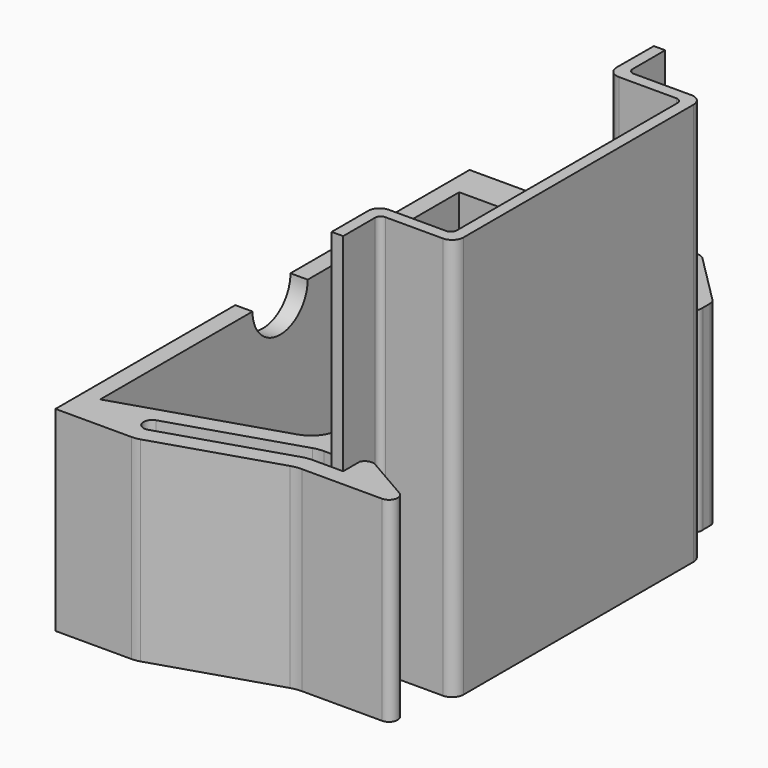
from build123d import *

# Parameters (mm, degrees)
PAD001_DEPTH            = 35
CYLINDER_R              = 1.25
CYLINDER_DEPTH          = 10
CYLINDER_PITCH_ANGLE    = -90
CYLINDER002_R           = 1.25
CYLINDER002_DEPTH       = 10
CYLINDER002_PITCH_ANGLE = -90
CYLINDER001_R           = 1.25
CYLINDER001_DEPTH       = 10
CYLINDER001_PITCH_ANGLE = -90
CYLINDER003_R           = 3
CYLINDER003_DEPTH       = 25
CYLINDER003_PITCH_ANGLE = -90
PAD_DEPTH               = 17


with BuildPart() as din_rail:
    # Sketch001 → Pad001 (new body)
    with BuildSketch(Plane(origin=(0, 17.5, 0), x_dir=(1, 0, 0), z_dir=(0, 0, 1))):
        with BuildLine():
            Line((0, 0), (0.981065, 0))
            Line((0.981065, 0), (0.981065, -3.535445))
            ThreePointArc((0.981065, -3.535445), (1.127512, -3.888998), (1.481065, -4.035445))
            Line((1.481065, -4.035445), (6.481065, -4.035445))
            ThreePointArc((7.481065, -5.035445), (7.188172, -4.328338), (6.481065, -4.035445))
            Line((7.481065, -5.035445), (7.481065, -30.035445))
            ThreePointArc((6.481065, -31.035445), (7.188172, -30.742552), (7.481065, -30.035445))
            Line((6.481065, -31.035445), (1.481065, -31.035445))
            ThreePointArc((1.481065, -31.035445), (1.127512, -31.181892), (0.981065, -31.535445))
            Line((0.981065, -31.535445), (0.981065, -35))
            Line((0.981065, -35), (-0.018935, -35))
            Line((-0.018935, -35), (-0.018935, -31.035445))
            ThreePointArc((0.981065, -30.035445), (0.273958, -30.328338), (-0.018935, -31.035445))
            Line((0.981065, -30.035445), (5.981065, -30.035445))
            ThreePointArc((5.981065, -30.035445), (6.334618, -29.888998), (6.481065, -29.535445))
            Line((6.481065, -29.535445), (6.481065, -5.535445))
            ThreePointArc((6.481065, -5.535445), (6.334618, -5.181892), (5.981065, -5.035445))
            Line((5.981065, -5.035445), (0.981065, -5.035445))
            ThreePointArc((-0.018935, -4.035445), (0.273958, -4.742552), (0.981065, -5.035445))
            Line((-0.018935, -4.035445), (0, 0))
        make_face()
    extrude(amount=PAD001_DEPTH)


with BuildPart() as bracket_hole:
    # Cylinder → Cylinder (new body)
    with BuildSketch(Plane.XY):
        Circle(CYLINDER_R)
    extrude(amount=CYLINDER_DEPTH)


with BuildPart() as bracket_hole_1:
    # Cylinder pitch: moved
    add(bracket_hole.part.rotate(Axis((0, 0, 0), (0, 1, 0)), CYLINDER_PITCH_ANGLE))


with BuildPart() as bracket_hole_2:
    # Cylinder placement: moved
    add(bracket_hole_1.part.moved(Location((5, 0, 8.5))))


with BuildPart() as bracket_hole002:
    # Cylinder002 → Cylinder002 (new body)
    with BuildSketch(Plane.XY):
        Circle(CYLINDER002_R)
    extrude(amount=CYLINDER002_DEPTH)


with BuildPart() as bracket_hole002_1:
    # Cylinder002 pitch: moved
    add(bracket_hole002.part.rotate(Axis((0, 0, 0), (0, 1, 0)), CYLINDER002_PITCH_ANGLE))


with BuildPart() as bracket_hole002_2:
    # Cylinder002 placement: moved
    add(bracket_hole002_1.part.moved(Location((-15, -15, 8.5))))


with BuildPart() as bracket_hole001:
    # Cylinder001 → Cylinder001 (new body)
    with BuildSketch(Plane.XY):
        Circle(CYLINDER001_R)
    extrude(amount=CYLINDER001_DEPTH)


with BuildPart() as bracket_hole001_1:
    # Cylinder001 pitch: moved
    add(bracket_hole001.part.rotate(Axis((0, 0, 0), (0, 1, 0)), CYLINDER001_PITCH_ANGLE))


with BuildPart() as bracket_hole001_2:
    # Cylinder001 placement: moved
    add(bracket_hole001_1.part.moved(Location((-15, 15, 8.5))))


with BuildPart() as cuts:
    # Cylinder003 → Cylinder003 (new body)
    with BuildSketch(Plane.XY):
        Circle(CYLINDER003_R)
    extrude(amount=CYLINDER003_DEPTH)


with BuildPart() as cuts_1:
    # Cylinder003 pitch: moved
    add(cuts.part.rotate(Axis((0, 0, 0), (0, 1, 0)), CYLINDER003_PITCH_ANGLE))


with BuildPart() as cuts_2:
    # Cylinder003 placement: moved
    add(cuts_1.part.moved(Location((0, 0, 17))))

    # Fusion: union bracket hole, bracket hole002, bracket hole001
    add(bracket_hole_2.part)
    add(bracket_hole002_2.part)
    add(bracket_hole001_2.part)


with BuildPart() as bracket:
    # Sketch → Pad (new body)
    with BuildSketch(Plane(origin=(-3, 0, 0), x_dir=(1, 0, 0), z_dir=(0, 0, 1))):
        with BuildLine():
            Line((2.816801, 22.461096), (-17, 22.461096))
            Line((-17, 22.461096), (-17, -22.538904))
            Line((-17, -22.538904), (-10.387825, -22.538904))
            ThreePointArc((-10.387825, -22.538904), (-10.043663, -22.512427), (-9.707601, -22.433617))
            Line((0.675806, -19.140382), (-9.707601, -22.433617))
            ThreePointArc((1.582771, -19), (1.123888, -19.035303), (0.675806, -19.140382))
            Line((1.582771, -19), (8.565389, -19))
            ThreePointArc((8.565389, -19), (9.289833, -18.444114), (8.940389, -17.600481))
            Line((8.940389, -17.600481), (5.043277, -15.350481))
            ThreePointArc((5.043277, -15.350481), (4.293277, -15.350481), (3.918277, -16))
            Line((3.918277, -16), (3.918277, -17.5))
            Line((3.918277, -17.5), (1.350598, -17.5))
            ThreePointArc((1.350598, -17.5), (0.891715, -17.535303), (0.443632, -17.640382))
            Line((-10.161093, -21.003811), (0.443632, -17.640382))
            ThreePointArc((-10.614575, -19.574002), (-11.10273, -20.515646), (-10.161093, -21.003811))
            Line((0.211458, -16.140382), (-10.614575, -19.574002))
            ThreePointArc((1.118424, -16), (0.659541, -16.035303), (0.211458, -16.140382))
            Line((1.118424, -16), (2.918277, -16))
            Line((2.918277, -16), (2.918277, 17.5))
            Line((2.918277, 17.5), (3.918277, 17.5))
            Line((3.918277, 17.5), (5.470804, 15.947472))
            ThreePointArc((5.470804, 15.947472), (5.729046, 15.747843), (6.04763, 15.676816))
            Line((6.04763, 15.676816), (7.424187, 15.676816))
            ThreePointArc((7.424187, 15.676816), (7.903008, 15.983319), (8.029261, 16.537642))
            Line((8.029261, 16.537642), (8.029261, 17.320995))
            ThreePointArc((8.029261, 17.320995), (7.97217, 17.608007), (7.809591, 17.851325))
            Line((3.470662, 22.190257), (7.809591, 17.851325))
            ThreePointArc((3.470662, 22.190257), (3.170668, 22.390707), (2.816801, 22.461096))
        make_face()
        with BuildLine():
            Line((-15.5, 19.461096), (-1.048614, 19.461096))
            ThreePointArc((0, 18.372077), (-0.304486, 19.128252), (-1.048614, 19.461096))
            Line((0, 18.372077), (-0.027789, -12.767681))
            ThreePointArc((-1.817178, -15.210154), (-0.523606, -14.28114), (-0.027789, -12.767681))
            Line((-15.5, -19.549843), (-1.817178, -15.210154))
            Line((-15.5, -19.549843), (-15.5, 19.461096))
        make_face(mode=Mode.SUBTRACT)
    extrude(amount=PAD_DEPTH)

    # Cut: cut cuts
    add(cuts_2.part, mode=Mode.SUBTRACT)


solid = Compound([din_rail.part, bracket.part])
